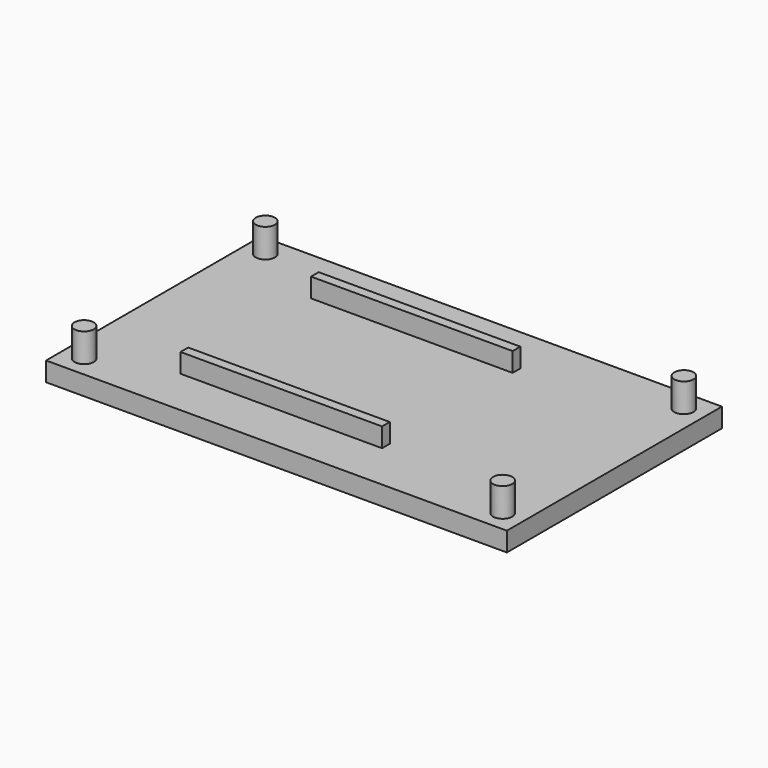
from build123d import *

# Parameters (mm, degrees)
SKETCH_W     = 48
SKETCH_H     = 28
PAD_DEPTH    = 2
SKETCH001_R  = 1
PAD001_DEPTH = 3
SKETCH002_W  = 21
SKETCH002_H  = 1
PAD002_DEPTH = 2


with BuildPart() as part:
    # Sketch → Pad (new body)
    with BuildSketch(Plane.XY):
        with Locations((24, 14)):
            Rectangle(SKETCH_W, SKETCH_H)
    extrude(amount=PAD_DEPTH)

    # Sketch001 → Pad001 (new body)
    with BuildSketch(Plane.XY.offset(2)):
        with Locations((2.2, 2.2)):
            Circle(SKETCH001_R)
        with Locations((2.2, 25.8)):
            Circle(SKETCH001_R)
        with Locations((45.8, 25.8)):
            Circle(SKETCH001_R)
        with Locations((45.8, 2.2)):
            Circle(SKETCH001_R)
    extrude(amount=PAD001_DEPTH)

    # Sketch002 → Pad002 (new body)
    with BuildSketch(Plane.XY.offset(2)):
        with Locations((20.5, 22.5)):
            Rectangle(SKETCH002_W, SKETCH002_H)
        with Locations((20.5, 5.5)):
            Rectangle(SKETCH002_W, SKETCH002_H)
    extrude(amount=PAD002_DEPTH)


solid = part.part
